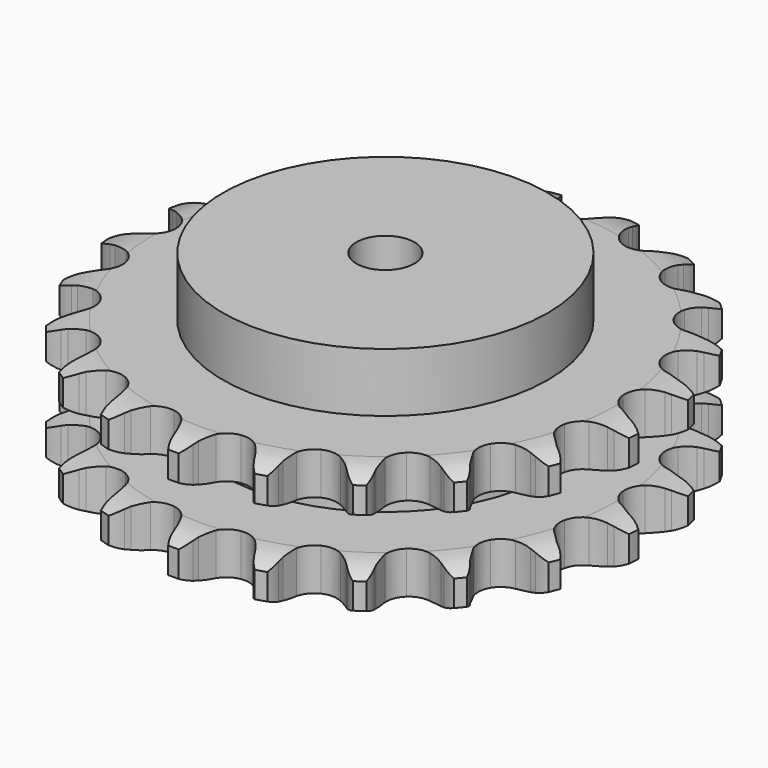
from build123d import *

# Parameters (mm, degrees)
PAD_DEPTH         = 54.6
SKETCH001_R       = 70
PAD001_DEPTH      = 80
SKETCH002_R       = 12.5
POCKET_DEPTH      = 0.001
POCKET_DEPTH_BACK = 80.001


with BuildPart() as part:
    # Sprocket → Pad (new body)
    with BuildSketch(Plane.XY):
        with BuildLine():
            ThreePointArc((-17.402896, 115.46067), (-14.126924, 112.411946), (-11.842062, 108.564074))
            Line((-11.842062, 108.564074), (-10.922482, 106.346618))
            ThreePointArc((-10.922482, 106.346618), (-9.447292, 103.369279), (-7.588084, 100.615358))
            ThreePointArc((-7.588084, 100.615358), (-4.22383, 97.880607), (0, 96.902685))
            ThreePointArc((0, 96.902685), (4.22383, 97.880607), (7.588084, 100.615358))
            ThreePointArc((7.588084, 100.615358), (9.447292, 103.369279), (10.922482, 106.346618))
            Line((10.922482, 106.346618), (11.842062, 108.564074))
            ThreePointArc((11.842062, 108.564074), (14.126924, 112.411946), (17.402896, 115.46067))
            ThreePointArc((17.402896, 115.46067), (19.634698, 111.581783), (20.68387, 107.231386))
            Line((20.68387, 107.231386), (20.908989, 104.841394))
            ThreePointArc((20.908989, 104.841394), (21.441054, 101.56151), (22.405931, 98.381927))
            ThreePointArc((22.405931, 98.381927), (24.814638, 94.777042), (28.562568, 92.597571))
            ThreePointArc((28.562568, 92.597571), (32.886992, 92.28705), (36.907864, 93.908673))
            Line((36.907864, 93.908673), (41.783442, 98.402478))
            ThreePointArc((41.783442, 98.402478), (42.527282, 99.344937), (43.315775, 100.250368))
            ThreePointArc((43.315775, 100.250368), (46.633307, 103.253815), (50.662364, 105.201483))
            ThreePointArc((50.662364, 105.201483), (51.651692, 100.837088), (51.37195, 96.370719))
            Line((51.37195, 96.370719), (50.882605, 94.020552))
            ThreePointArc((50.882605, 94.020552), (50.424269, 90.729555), (50.40908, 87.40683))
            ThreePointArc((50.40908, 87.40683), (51.648217, 83.252121), (54.587226, 80.064756))
            ThreePointArc((54.587226, 80.064756), (58.628001, 78.493384), (62.948219, 78.85779))
            Line((62.948219, 78.85779), (68.931761, 81.714846))
            ThreePointArc((68.931761, 81.714846), (69.920349, 82.396183), (70.940691, 83.028977))
            ThreePointArc((70.940691, 83.028977), (74.996116, 84.921129), (79.420259, 85.594682))
            ThreePointArc((79.420259, 85.594682), (79.079205, 81.132576), (77.495406, 76.94709))
            Line((77.495406, 76.94709), (76.335078, 74.845572))
            ThreePointArc((76.335078, 74.845572), (74.927066, 71.835882), (73.933162, 68.665253))
            ThreePointArc((73.933162, 68.665253), (73.892625, 64.329883), (75.76157, 60.417836))
            ThreePointArc((75.76157, 60.417836), (79.159655, 57.725237), (83.395348, 56.800047))
            Line((83.395348, 56.800047), (89.95519, 57.766492))
            ThreePointArc((89.95519, 57.766492), (91.100685, 58.126168), (92.262216, 58.430096))
            ThreePointArc((92.262216, 58.430096), (96.695191, 59.042828), (101.121315, 58.382418))
            ThreePointArc((101.121315, 58.382418), (99.480185, 54.219078), (96.733056, 50.686375))
            Line((96.733056, 50.686375), (95.004844, 49.020234))
            ThreePointArc((95.004844, 49.020234), (92.772264, 46.559275), (90.887957, 43.822466))
            ThreePointArc((90.887957, 43.822466), (89.571349, 39.691654), (90.204166, 35.402526))
            ThreePointArc((90.204166, 35.402526), (92.657626, 31.827949), (96.432434, 29.69537))
            Line((96.432434, 29.69537), (102.985706, 28.685331))
            ThreePointArc((102.985706, 28.685331), (104.186326, 28.691387), (105.385838, 28.639446))
            ThreePointArc((105.385838, 28.639446), (109.802474, 27.918313), (113.837299, 25.982621))
            ThreePointArc((113.837299, 25.982621), (111.041913, 22.487977), (107.375549, 19.921953))
            Line((107.375549, 19.921953), (105.233013, 18.839233))
            ThreePointArc((105.233013, 18.839233), (102.37424, 17.145672), (99.766959, 15.085861))
            ThreePointArc((99.766959, 15.085861), (97.291265, 11.526646), (96.631725, 7.241547))
            ThreePointArc((96.631725, 7.241547), (97.92256, 3.102608), (100.901075, -0.047871))
            Line((100.901075, -0.047871), (106.865489, -2.944647))
            ThreePointArc((106.865489, -2.944647), (108.014555, -3.29275), (109.145466, -3.695946))
            ThreePointArc((109.145466, -3.695946), (113.153326, -5.686867), (116.438339, -8.725847))
            ThreePointArc((116.438339, -8.725847), (112.73708, -11.241279), (108.477253, -12.612623))
            Line((108.477253, -12.612623), (106.110767, -13.015716))
            ThreePointArc((106.110767, -13.015716), (102.879815, -13.791399), (99.781229, -14.991189))
            ThreePointArc((99.781229, -14.991189), (96.366426, -17.662554), (94.473132, -21.562876))
            ThreePointArc((94.473132, -21.562876), (94.486645, -25.898414), (96.404213, -29.786858))
            Line((96.404213, -29.786858), (101.249805, -34.312981))
            ThreePointArc((101.249805, -34.312981), (102.245216, -34.984311), (103.20704, -35.702936))
            ThreePointArc((103.20704, -35.702936), (106.450007, -38.786744), (108.693321, -42.658985))
            ThreePointArc((108.693321, -42.658985), (104.415063, -43.971698), (99.940277, -44.026511))
            Line((99.940277, -44.026511), (97.560114, -43.714162))
            ThreePointArc((97.560114, -43.714162), (94.244067, -43.503044), (90.929498, -43.736206))
            ThreePointArc((90.929498, -43.736206), (86.879007, -45.282359), (83.920187, -48.451342))
            ThreePointArc((83.920187, -48.451342), (82.655177, -52.598247), (83.341414, -56.879153))
            Line((83.341414, -56.879153), (86.637632, -62.632456))
            ThreePointArc((86.637632, -62.632456), (87.390941, -63.567363), (88.098215, -64.537564))
            ThreePointArc((88.098215, -64.537564), (90.288139, -68.440248), (91.290425, -72.801685))
            ThreePointArc((91.290425, -72.801685), (86.815309, -72.795039), (82.523169, -71.52845))
            Line((82.523169, -71.52845), (80.340816, -70.528413))
            ThreePointArc((80.340816, -70.528413), (77.234321, -69.349252), (73.998283, -68.595069))
            ThreePointArc((73.998283, -68.595069), (69.672007, -68.878628), (65.910565, -71.034695))
            ThreePointArc((65.910565, -71.034695), (63.479434, -74.624496), (62.873364, -78.917484))
            Line((62.873364, -78.917484), (64.327325, -85.386762))
            ThreePointArc((64.327325, -85.386762), (64.771598, -86.502175), (65.161478, -87.637746))
            ThreePointArc((65.161478, -87.637746), (66.103773, -92.012536), (65.775975, -96.475636))
            ThreePointArc((65.775975, -96.475636), (61.501634, -95.150221), (57.773516, -92.674773))
            Line((57.773516, -92.674773), (55.982884, -91.075905))
            ThreePointArc((55.982884, -91.075905), (53.361965, -89.033475), (50.491995, -87.358959))
            ThreePointArc((50.491995, -87.358959), (46.274343, -86.354728), (42.044499, -87.306302))
            ThreePointArc((42.044499, -87.306302), (38.663264, -90.02003), (36.81874, -93.943652))
            Line((36.81874, -93.943652), (36.301252, -100.554079))
            ThreePointArc((36.301252, -100.554079), (36.397014, -101.75089), (36.434857, -102.950929))
            ThreePointArc((36.434857, -102.950929), (36.045797, -107.409106), (34.41704, -111.577303))
            ThreePointArc((34.41704, -111.577303), (30.723269, -109.050889), (27.890432, -105.586536))
            Line((27.890432, -105.586536), (26.650628, -103.530903))
            ThreePointArc((26.650628, -103.530903), (24.748165, -100.806683), (22.499272, -98.360622))
            ThreePointArc((22.499272, -98.360622), (18.765001, -96.157832), (14.442596, -95.820362))
            ThreePointArc((14.442596, -95.820362), (10.411694, -97.41689), (7.49261, -100.622513))
            Line((7.49261, -100.622513), (5.049654, -106.786726))
            ThreePointArc((5.049654, -106.786726), (4.788395, -107.958592), (4.47084, -109.116471))
            ThreePointArc((4.47084, -109.116471), (2.784993, -113.261906), (0, -116.764837))
            ThreePointArc((0, -116.764837), (-2.784993, -113.261906), (-4.47084, -109.116471))
            Line((-4.47084, -109.116471), (-5.049654, -106.786726))
            ThreePointArc((-5.049654, -106.786726), (-6.064618, -103.622775), (-7.49261, -100.622513))
            ThreePointArc((-7.49261, -100.622513), (-10.411694, -97.41689), (-14.442596, -95.820362))
            ThreePointArc((-14.442596, -95.820362), (-18.765001, -96.157832), (-22.499272, -98.360622))
            Line((-22.499272, -98.360622), (-26.650628, -103.530903))
            ThreePointArc((-26.650628, -103.530903), (-27.245693, -104.573698), (-27.890432, -105.586536))
            ThreePointArc((-27.890432, -105.586536), (-30.723269, -109.050889), (-34.41704, -111.577303))
            ThreePointArc((-34.41704, -111.577303), (-36.045797, -107.409106), (-36.434857, -102.950929))
            Line((-36.434857, -102.950929), (-36.301252, -100.554079))
            ThreePointArc((-36.301252, -100.554079), (-36.338533, -97.231528), (-36.81874, -93.943652))
            ThreePointArc((-36.81874, -93.943652), (-38.663264, -90.02003), (-42.044499, -87.306302))
            ThreePointArc((-42.044499, -87.306302), (-46.274343, -86.354728), (-50.491995, -87.358959))
            Line((-50.491995, -87.358959), (-55.982884, -91.075905))
            ThreePointArc((-55.982884, -91.075905), (-56.858882, -91.896973), (-57.773516, -92.674773))
            ThreePointArc((-57.773516, -92.674773), (-61.501634, -95.150221), (-65.775975, -96.475636))
            ThreePointArc((-65.775975, -96.475636), (-66.103773, -92.012536), (-65.161478, -87.637746))
            Line((-65.161478, -87.637746), (-64.327325, -85.386762))
            ThreePointArc((-64.327325, -85.386762), (-63.38361, -82.200834), (-62.873364, -78.917484))
            ThreePointArc((-62.873364, -78.917484), (-63.479434, -74.624496), (-65.910565, -71.034695))
            ThreePointArc((-65.910565, -71.034695), (-69.672007, -68.878628), (-73.998283, -68.595069))
            Line((-73.998283, -68.595069), (-80.340816, -70.528413))
            ThreePointArc((-80.340816, -70.528413), (-81.41991, -71.054799), (-82.523169, -71.52845))
            ThreePointArc((-82.523169, -71.52845), (-86.815309, -72.795039), (-91.290425, -72.801685))
            ThreePointArc((-91.290425, -72.801685), (-90.288139, -68.440248), (-88.098215, -64.537564))
            Line((-88.098215, -64.537564), (-86.637632, -62.632456))
            ThreePointArc((-86.637632, -62.632456), (-84.796775, -59.866234), (-83.341414, -56.879153))
            ThreePointArc((-83.341414, -56.879153), (-82.655177, -52.598247), (-83.920187, -48.451342))
            ThreePointArc((-83.920187, -48.451342), (-86.879007, -45.282359), (-90.929498, -43.736206))
            Line((-90.929498, -43.736206), (-97.560114, -43.714162))
            ThreePointArc((-97.560114, -43.714162), (-98.746422, -43.899094), (-99.940277, -44.026511))
            ThreePointArc((-99.940277, -44.026511), (-104.415063, -43.971698), (-108.693321, -42.658985))
            ThreePointArc((-108.693321, -42.658985), (-106.450007, -38.786744), (-103.20704, -35.702936))
            Line((-103.20704, -35.702936), (-101.249805, -34.312981))
            ThreePointArc((-101.249805, -34.312981), (-98.675375, -32.212257), (-96.404213, -29.786858))
            ThreePointArc((-96.404213, -29.786858), (-94.486645, -25.898414), (-94.473132, -21.562876))
            ThreePointArc((-94.473132, -21.562876), (-96.366426, -17.662554), (-99.781229, -14.991189))
            Line((-99.781229, -14.991189), (-106.110767, -13.015716))
            ThreePointArc((-106.110767, -13.015716), (-107.29888, -12.842761), (-108.477253, -12.612623))
            ThreePointArc((-108.477253, -12.612623), (-112.73708, -11.241279), (-116.438339, -8.725847))
            ThreePointArc((-116.438339, -8.725847), (-113.153326, -5.686867), (-109.145466, -3.695946))
            Line((-109.145466, -3.695946), (-106.865489, -2.944647))
            ThreePointArc((-106.865489, -2.944647), (-103.786234, -1.69608), (-100.901075, -0.047871))
            ThreePointArc((-100.901075, -0.047871), (-97.92256, 3.102608), (-96.631725, 7.241547))
            ThreePointArc((-96.631725, 7.241547), (-97.291265, 11.526646), (-99.766959, 15.085861))
            Line((-99.766959, 15.085861), (-105.233013, 18.839233))
            ThreePointArc((-105.233013, 18.839233), (-106.317362, 19.354707), (-107.375549, 19.921953))
            ThreePointArc((-107.375549, 19.921953), (-111.041913, 22.487977), (-113.837299, 25.982621))
            ThreePointArc((-113.837299, 25.982621), (-109.802474, 27.918313), (-105.385838, 28.639446))
            Line((-105.385838, 28.639446), (-102.985706, 28.685331))
            ThreePointArc((-102.985706, 28.685331), (-99.675231, 28.970802), (-96.432434, 29.69537))
            ThreePointArc((-96.432434, 29.69537), (-92.657626, 31.827949), (-90.204166, 35.402526))
            ThreePointArc((-90.204166, 35.402526), (-89.571349, 39.691654), (-90.887957, 43.822466))
            Line((-90.887957, 43.822466), (-95.004844, 49.020234))
            ThreePointArc((-95.004844, 49.020234), (-95.88908, 49.832424), (-96.733056, 50.686375))
            ThreePointArc((-96.733056, 50.686375), (-99.480185, 54.219078), (-101.121315, 58.382418))
            ThreePointArc((-101.121315, 58.382418), (-96.695191, 59.042828), (-92.262216, 58.430096))
            Line((-92.262216, 58.430096), (-89.95519, 57.766492))
            ThreePointArc((-89.95519, 57.766492), (-86.707647, 57.0635), (-83.395348, 56.800047))
            ThreePointArc((-83.395348, 56.800047), (-79.159655, 57.725237), (-75.76157, 60.417836))
            ThreePointArc((-75.76157, 60.417836), (-73.892625, 64.329883), (-73.933162, 68.665253))
            Line((-73.933162, 68.665253), (-76.335078, 74.845572))
            ThreePointArc((-76.335078, 74.845572), (-76.940633, 75.882312), (-77.495406, 76.94709))
            ThreePointArc((-77.495406, 76.94709), (-79.079205, 81.132576), (-79.420259, 85.594682))
            ThreePointArc((-79.420259, 85.594682), (-74.996116, 84.921129), (-70.940691, 83.028977))
            Line((-70.940691, 83.028977), (-68.931761, 81.714846))
            ThreePointArc((-68.931761, 81.714846), (-66.035707, 80.085857), (-62.948219, 78.85779))
            ThreePointArc((-62.948219, 78.85779), (-58.628001, 78.493384), (-54.587226, 80.064756))
            ThreePointArc((-54.587226, 80.064756), (-51.648217, 83.252121), (-50.40908, 87.40683))
            Line((-50.40908, 87.40683), (-50.882605, 94.020552))
            ThreePointArc((-50.882605, 94.020552), (-51.155672, 95.189723), (-51.37195, 96.370719))
            ThreePointArc((-51.37195, 96.370719), (-51.651692, 100.837088), (-50.662364, 105.201483))
            ThreePointArc((-50.662364, 105.201483), (-46.633307, 103.253815), (-43.315775, 100.250368))
            Line((-43.315775, 100.250368), (-41.783442, 98.402478))
            ThreePointArc((-41.783442, 98.402478), (-39.496205, 95.992233), (-36.907864, 93.908673))
            ThreePointArc((-36.907864, 93.908673), (-32.886992, 92.28705), (-28.562568, 92.597571))
            ThreePointArc((-28.562568, 92.597571), (-24.814638, 94.777042), (-22.405931, 98.381927))
            Line((-22.405931, 98.381927), (-20.908989, 104.841394))
            ThreePointArc((-20.908989, 104.841394), (-20.825306, 106.03911), (-20.68387, 107.231386))
            ThreePointArc((-20.68387, 107.231386), (-19.634698, 111.581783), (-17.402896, 115.46067))
        make_face()
    extrude(amount=PAD_DEPTH)

    # Sketch → Groove (revolve, cut)
    with BuildSketch(Plane.XZ):
        with BuildLine():
            ThreePointArc((99.548368, 0), (107.031683, 0.887302), (114.1, 3.5))
            Line((114.1, 3.5), (114.1, 14.7))
            ThreePointArc((114.1, 14.7), (107.031683, 17.312698), (99.548368, 18.2))
            Line((70, 18.2), (99.548368, 18.2))
            Line((70, 36.4), (70, 18.2))
            Line((99.548368, 36.4), (70, 36.4))
            ThreePointArc((99.548368, 36.4), (107.031683, 37.287302), (114.1, 39.9))
            Line((114.1, 39.9), (114.1, 51.1))
            ThreePointArc((114.1, 51.1), (107.031683, 53.712698), (99.548368, 54.6))
            Line((99.548368, 54.6), (124.1, 54.6))
            Line((124.1, 54.6), (124.1, 0))
            Line((99.548368, 0), (124.1, 0))
        make_face()
    revolve(axis=Axis((0, 0, 0), (0, 0, 1)), mode=Mode.SUBTRACT)

    # Sketch001 → Pad001 (join)
    with BuildSketch(Plane.XY):
        Circle(SKETCH001_R)
    extrude(amount=PAD001_DEPTH)

    # Sketch002 → Pocket (cut, two sides)
    with BuildSketch(Plane.XY) as pocket_sk:
        Circle(SKETCH002_R)
    extrude(amount=-POCKET_DEPTH, mode=Mode.SUBTRACT)
    extrude(pocket_sk.sketch, amount=POCKET_DEPTH_BACK, mode=Mode.SUBTRACT)


solid = part.part
